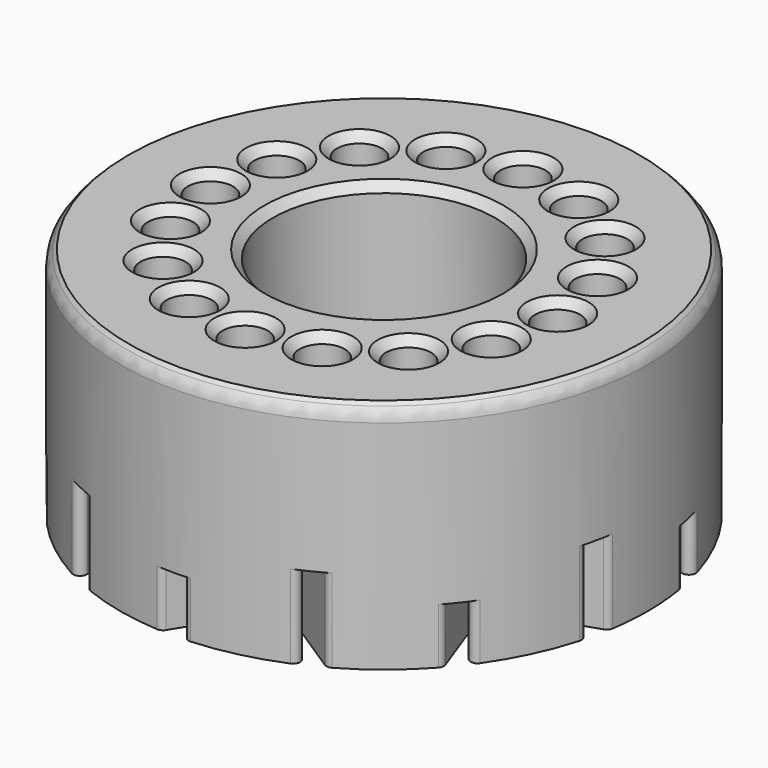
from build123d import *

# Parameters (mm, degrees)
SKETCH_R              = 38
PAD_DEPTH             = 33.5
SKETCH001_R           = 12
POCKET_DEPTH          = 33.501
SKETCH002_R           = 27
POCKET001_DEPTH       = 10
SKETCH003_R           = 3.25
POCKET002_DEPTH       = 15
POLARPATTERN_COUNT    = 16
SKETCH004_R           = 16
POCKET003_DEPTH       = 33.501
POCKET004_DEPTH       = 12
POLARPATTERN001_COUNT = 7
POCKET005_DEPTH       = 8
POLARPATTERN002_COUNT = 7
SKETCH007_R           = 1.85
POCKET006_DEPTH       = 20
POLARPATTERN003_COUNT = 7
SKETCH008_R           = 4
POCKET007_DEPTH       = 10
POLARPATTERN004_COUNT = 7
CHAMFER_SIZE          = 1.2
FILLET_R              = 1
SKETCH009_R           = 1.8
POCKET008_DEPTH       = 1.5
POLARPATTERN005_COUNT = 7
FILLET001_R           = 1
FILLET002_R           = 1
FILLET003_R           = 1
FILLET004_R           = 2.5


with BuildPart() as part:
    # Sketch → Pad (new body)
    with BuildSketch(Plane.XY):
        Circle(SKETCH_R)
    extrude(amount=PAD_DEPTH)

    # Sketch001 → Pocket (cut, through all)
    with BuildSketch(Plane(origin=(0, 0, 0), x_dir=(1, 0, 0), z_dir=(0, 0, -1))):
        Circle(SKETCH001_R)
    extrude(amount=-POCKET_DEPTH, mode=Mode.SUBTRACT)

    # Sketch002 → Pocket001 (cut)
    with BuildSketch(Plane(origin=(0, 0, 0), x_dir=(1, 0, 0), z_dir=(0, 0, -1))):
        Circle(SKETCH002_R)
    extrude(amount=-POCKET001_DEPTH, mode=Mode.SUBTRACT)

    # Sketch003 → Pocket002 (cut)
    with BuildSketch(Plane.XY.offset(33.5)):
        with Locations((0, 25)):
            Circle(SKETCH003_R)
    pocket002 = extrude(amount=-POCKET002_DEPTH, mode=Mode.SUBTRACT)

    # PolarPattern: Pocket002 ×16 about axis
    polarpattern_axis = Axis((0, 0, 33.5), (0, 0, 1))
    for i in range(1, POLARPATTERN_COUNT):
        add(pocket002.rotate(polarpattern_axis, i * 360 / POLARPATTERN_COUNT), mode=Mode.SUBTRACT)

    # Sketch004 → Pocket003 (cut, through all)
    with BuildSketch(Plane.XY.offset(33.5)):
        Circle(SKETCH004_R)
    extrude(amount=-POCKET003_DEPTH, mode=Mode.SUBTRACT)

    # Sketch005 → Pocket004 (cut)
    with BuildSketch(Plane(origin=(0, 0, 0), x_dir=(1, 0, 0), z_dir=(0, 0, -1))):
        with BuildLine():
            Line((31.728103, 41.992018), (0.336726, 21.525774))
            ThreePointArc((-0.701152, 21.74443), (-0.227498, 21.420151), (0.336726, 21.525774))
            Line((-0.974226, 22.163274), (-0.701152, 21.74443))
            ThreePointArc((-0.75557, 23.201152), (-1.079849, 22.727498), (-0.974226, 22.163274))
            Line((-0.75557, 23.201152), (30.635807, 43.667395))
            Line((30.635807, 43.667395), (31.728103, 41.992018))
        make_face()
    pocket004 = extrude(amount=-POCKET004_DEPTH, mode=Mode.SUBTRACT)

    # PolarPattern001: Pocket004 ×7 about axis
    polarpattern001_axis = Axis((0, 0, 0), (0, 0, -1))
    for i in range(1, POLARPATTERN001_COUNT):
        add(pocket004.rotate(polarpattern001_axis, i * 360 / POLARPATTERN001_COUNT), mode=Mode.SUBTRACT)

    # Sketch006 → Pocket005 (cut)
    with BuildSketch(Plane(origin=(0, 0, 0), x_dir=(1, 0, 0), z_dir=(0, 0, -1))):
        Polygon((11.870141, 19.539338), (-8.982104, 53.674128), (-10.688844, 52.631516), (10.163401, 18.496726), align=None)
    pocket005 = extrude(amount=-POCKET005_DEPTH, mode=Mode.SUBTRACT)

    # PolarPattern002: Pocket005 ×7 about axis
    polarpattern002_axis = Axis((0, 0, 0), (0, 0, -1))
    for i in range(1, POLARPATTERN002_COUNT):
        add(pocket005.rotate(polarpattern002_axis, i * 360 / POLARPATTERN002_COUNT), mode=Mode.SUBTRACT)

    # Sketch007 → Pocket006 (cut)
    with BuildSketch(Plane(origin=(0, 0, 0), x_dir=(1, 0, 0), z_dir=(0, 0, -1))):
        with Locations((-6.32619, 28.256334)):
            Circle(SKETCH007_R)
    pocket006 = extrude(amount=-POCKET006_DEPTH, mode=Mode.SUBTRACT)

    # PolarPattern003: Pocket006 ×7 about axis
    polarpattern003_axis = Axis((0, 0, 0), (0, 0, -1))
    for i in range(1, POLARPATTERN003_COUNT):
        add(pocket006.rotate(polarpattern003_axis, i * 360 / POLARPATTERN003_COUNT), mode=Mode.SUBTRACT)

    # Sketch008 → Pocket007 (cut)
    with BuildSketch(Plane(origin=(0, 0, 0), x_dir=(1, 0, 0), z_dir=(0, 0, -1))):
        with Locations((-6.320043, 28.211058)):
            Circle(SKETCH008_R)
    pocket007 = extrude(amount=-POCKET007_DEPTH, mode=Mode.SUBTRACT)

    # PolarPattern004: Pocket007 ×7 about axis
    polarpattern004_axis = Axis((0, 0, 0), (0, 0, -1))
    for i in range(1, POLARPATTERN004_COUNT):
        add(pocket007.rotate(polarpattern004_axis, i * 360 / POLARPATTERN004_COUNT), mode=Mode.SUBTRACT)

    # Chamfer
    chamfer_edges = [part.edges().sort_by_distance(p)[0] for p in [
        (-38, 0, 33.5),
        (-3.25, 25, 33.5),
        (6.564477, 24.340709, 33.5),
        (-16, 0, 33.5),
        (15.379572, 19.975767, 33.5),
        (-19.975767, 15.379572, 33.5),
        (-21.853267, -12.569694, 33.5),
        (-12.569694, 21.853267, 33.5),
        (19.975767, -15.379572, 33.5),
        (21.853267, 12.569694, 33.5),
        (-24.340709, 6.564477, 33.5),
        (-25, -3.25, 33.5),
        (-15.379572, -19.975767, 33.5),
        (-6.564477, -24.340709, 33.5),
        (12.569694, -21.853267, 33.5),
        (3.25, -25, 33.5),
        (24.340709, -6.564477, 33.5),
        (25, 3.25, 33.5),
    ]]
    chamfer(chamfer_edges, length=CHAMFER_SIZE)

    # Fillet
    fillet_edges = [part.edges().sort_by_distance(p)[0] for p in [
        (29.835358, 23.534048, 6),
        (15.948801, 34.491097, 4),
        (0.202381, 37.999461, 6),
        (-17.022311, 33.974122, 4),
        (-29.582992, 23.850505, 6),
        (-37.175275, 7.87394, 4),
        (-37.091769, -8.258368, 6),
        (-29.334499, -24.155479, 4),
        (-16.669688, -34.148521, 6),
        (0.595753, -37.99533, 4),
        (16.305009, -34.324141, 6),
        (30.077391, -23.223922, 4),
        (37.001701, -8.652983, 6),
        (36.91014, 9.035573, 4),
    ]]
    fillet(fillet_edges, radius=FILLET_R)

    # Sketch009 → Pocket008 (cut)
    with BuildSketch(Plane(origin=(0, 0, 10), x_dir=(1, 0, 0), z_dir=(0, 0, -1))):
        with Locations((-9.974159, 20.724771)):
            Circle(SKETCH009_R)
    pocket008 = extrude(amount=-POCKET008_DEPTH, mode=Mode.SUBTRACT)

    # PolarPattern005: Pocket008 ×7 about axis
    polarpattern005_axis = Axis((0, 0, 10), (0, 0, -1))
    for i in range(1, POLARPATTERN005_COUNT):
        add(pocket008.rotate(polarpattern005_axis, i * 360 / POLARPATTERN005_COUNT), mode=Mode.SUBTRACT)

    # Fillet001
    fillet001_edges = [part.edges().sort_by_distance(p)[0] for p in [
        (26.799777, -3.282062, 5),
        (26.772585, 3.496952, 5),
        (19.275407, 18.906578, 5),
        (19.426461, -18.751336, 5),
        (14.143369, -22.999242, 5),
        (-2.548185, -26.879486, 5),
        (-9.163285, -25.397524, 5),
        (-25.569798, -8.670952, 5),
        (-25.638537, 8.465545, 5),
        (-22.721732, 14.585023, 5),
        (-22.603995, -14.766834, 5),
        (-9.366737, 25.323196, 5),
        (-2.763738, 26.858178, 5),
        (13.958407, 23.111964, 5),
    ]]
    fillet(fillet001_edges, radius=FILLET001_R)

    # Fillet002
    fillet002_edges = [part.edges().sort_by_distance(p)[0] for p in [
        (-18.181509, 22.371963, 4),
        (-28.827091, -0.266186, 4),
        (-17.765285, -22.703891, 4),
        (6.155119, 28.163567, 4),
        (25.856818, 12.747431, 4),
        (26.087805, -12.267781, 4),
        (6.674143, -28.045103, 4),
    ]]
    fillet(fillet002_edges, radius=FILLET002_R)

    # Fillet003
    fillet003_edges = [part.edges().sort_by_distance(p)[0] for p in [
        (-36.624749, 10.130538, 4),
        (-30.973835, 22.014122, 6),
        (-36.523204, -10.490739, 6),
        (-30.755531, -22.318095, 4),
        (-14.569855, -35.095859, 6),
        (-1.726771, -37.960746, 4),
        (18.354891, -33.273082, 6),
        (28.602283, -25.018182, 4),
        (37.45803, -6.394995, 6),
        (37.393234, 6.763584, 4),
        (28.354509, 25.298653, 6),
        (18.026317, 33.452233, 4),
        (-2.100536, 37.9419, 6),
        (-14.914784, 34.950668, 4),
    ]]
    fillet(fillet003_edges, radius=FILLET003_R)

    # Fillet004
    fillet004_edges = [part.edges().sort_by_distance(p)[0] for p in [
        (-38, 0, 32.3),
    ]]
    fillet(fillet004_edges, radius=FILLET004_R)


solid = part.part
